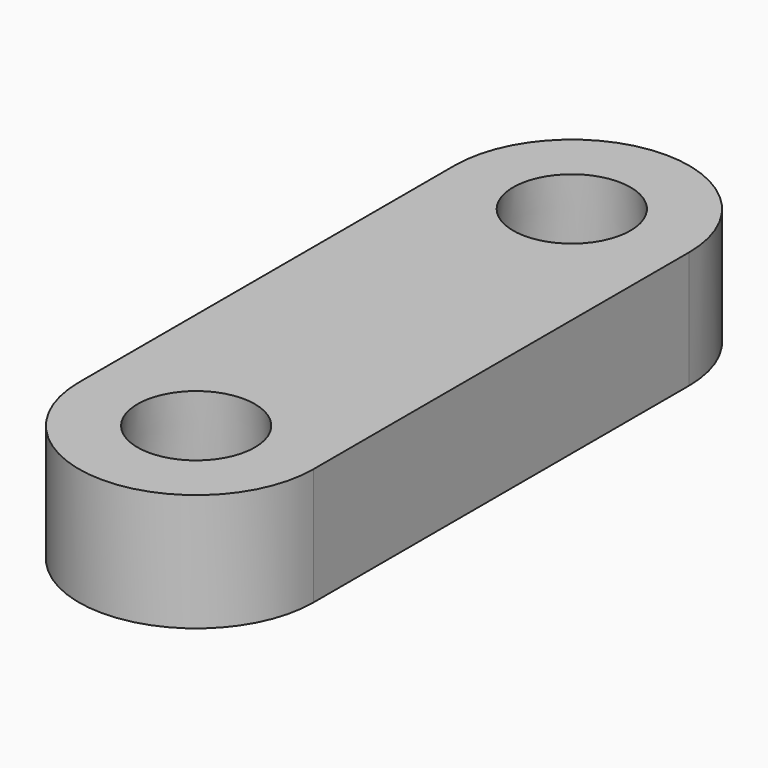
from build123d import *

# Parameters (mm, degrees)
F1_DEPTH = 12.7
F2_R     = 6.35
F3_DEPTH = 25.4
F3_TAPER = -3


with BuildPart() as f1:
    # F0 (on Top) → F1 (new body)
    with BuildSketch(Plane.XY):
        with BuildLine():
            Line((-12.7, 0), (-12.7, -25.4))
            ThreePointArc((-12.7, -25.4), (0, -38.1), (12.7, -25.4))
            Line((12.7, -25.4), (12.7, 0))
            Line((12.7, 0), (12.7, 25.4))
            ThreePointArc((12.7, 25.4), (0, 38.1), (-12.7, 25.4))
            Line((-12.7, 25.4), (-12.7, 0))
        make_face()
    extrude(amount=F1_DEPTH)

    # F2 (on face) → F3 (cut)
    with BuildSketch(Plane.XY.offset(12.7)):
        with Locations((0, 25.4)):
            Circle(F2_R)
        with Locations((0, -25.4)):
            Circle(F2_R)
    extrude(amount=-F3_DEPTH, taper=F3_TAPER, mode=Mode.SUBTRACT)


solid = f1.part
